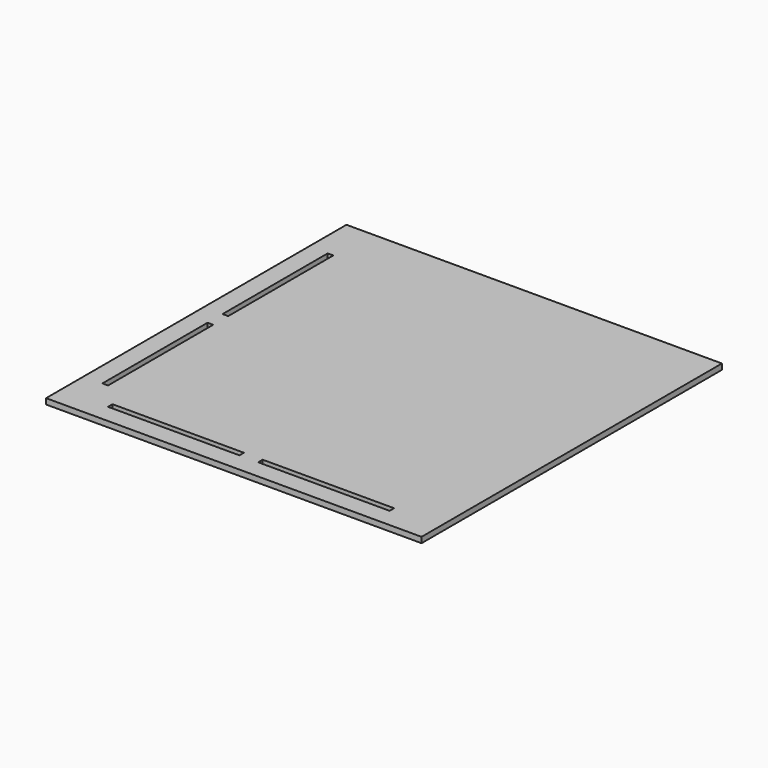
from build123d import *

# Parameters (mm, degrees)
F0_W     = 200
F0_H     = 200
F0_W_2   = 70
F0_H_2   = 3
F0_W_3   = 3
F0_H_3   = 70
F1_DEPTH = 3


with BuildPart() as f1:
    # F0 (on Top) → F1 (new body)
    with BuildSketch(Plane.XY):
        with Locations((100, 100)):
            Rectangle(F0_W, F0_H)
        with Locations((60, 11.5)):
            Rectangle(F0_W_2, F0_H_2, mode=Mode.SUBTRACT)
        with Locations((11.5, 60)):
            Rectangle(F0_W_3, F0_H_3, mode=Mode.SUBTRACT)
        with Locations((140, 11.5)):
            Rectangle(F0_W_2, F0_H_2, mode=Mode.SUBTRACT)
        with Locations((11.5, 140)):
            Rectangle(F0_W_3, F0_H_3, mode=Mode.SUBTRACT)
    extrude(amount=F1_DEPTH)


solid = f1.part
